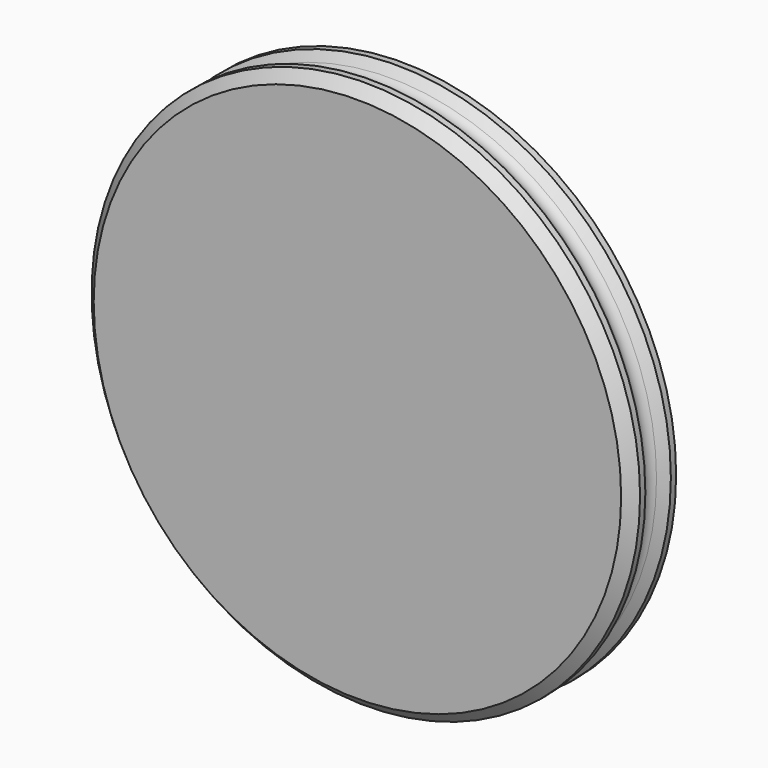
from build123d import *

# Parameters (mm, degrees)
PAD_DEPTH       = 8
CHAMFER_SIZE    = 2
SKETCH002_R     = 2.6
POCKET_DEPTH    = 1.6
SKETCH003_R     = 1.7
POCKET001_DEPTH = 8
POCKET002_DEPTH = 1.175


with BuildPart() as part:
    # Sketch → Revolution (revolve)
    with BuildSketch(Plane.XY):
        with BuildLine():
            Line((0, -2), (28.3, -2))
            Line((28.3, -2), (33.3, 3))
            Line((33.3, 3), (36.5, 3))
            Line((36.5, 3), (36.5, 2.12132))
            Line((36.5, 2.12132), (35.43934, 1.06066))
            ThreePointArc((35.43934, 1.06066), (35, 0), (35.43934, -1.06066))
            Line((35.43934, -1.06066), (36.5, -2.12132))
            Line((36.5, -2.12132), (36.5, -3))
            Line((36.5, -3), (35.1, -4.4))
            Line((35.1, -4.4), (0, -4.4))
            Line((0, -4.4), (0, -2))
        make_face()
    revolve(axis=Axis((0, 0, 0), (0, 1, 0)))

    # Sketch001 (on Face1 of Revolution) → Pad (new body)
    with BuildSketch(Plane(origin=(0, -2, 0), x_dir=(-1, 0, 0), z_dir=(0, 1, 0))):
        with BuildLine():
            Line((4.5, 8.125), (-4.5, 8.125))
            Line((-4.5, 8.125), (-6.893963, 4.058728))
            ThreePointArc((-6.893963, 4.058728), (0, -8), (6.893963, 4.058728))
            Line((6.893963, 4.058728), (4.5, 8.125))
        make_face()
        with BuildLine():
            Line((-2.04939, 1.6), (2.04939, 1.6))
            ThreePointArc((2.04939, -1.6), (2.6, 0), (2.04939, 1.6))
            Line((-2.04939, -1.6), (2.04939, -1.6))
            ThreePointArc((-2.04939, 1.6), (-2.6, 0), (-2.04939, -1.6))
        make_face(mode=Mode.SUBTRACT)
    extrude(amount=PAD_DEPTH)

    # Chamfer
    chamfer_edges = [part.edges().sort_by_distance(p)[0] for p in [
        (0, -2, -8),
    ]]
    chamfer(chamfer_edges, length=CHAMFER_SIZE)

    # Sketch002 (on Face8 of Chamfer) → Pocket (cut)
    with BuildSketch(Plane(origin=(0, 6, 0), x_dir=(-1, 0, 0), z_dir=(0, 1, 0))):
        Circle(SKETCH002_R)
    extrude(amount=-POCKET_DEPTH, mode=Mode.SUBTRACT)

    # Sketch003 (on Face8 of Pocket) → Pocket001 (cut)
    with BuildSketch(Plane.XY.offset(8.125)):
        with Locations((0, 2)):
            Circle(SKETCH003_R)
    extrude(amount=-POCKET001_DEPTH, mode=Mode.SUBTRACT)

    # Sketch004 (on Face9 of Pocket001) → Pocket002 (cut, symmetric)
    with BuildSketch(Plane.XY.offset(5.3875)):
        Polygon((-2.8, 0.016581), (-2.8, 6.016581), (2.8, 6.016581), (2.8, 0.016581), (0, -1.6), align=None)
    extrude(amount=POCKET002_DEPTH, both=True, mode=Mode.SUBTRACT)


solid = part.part
